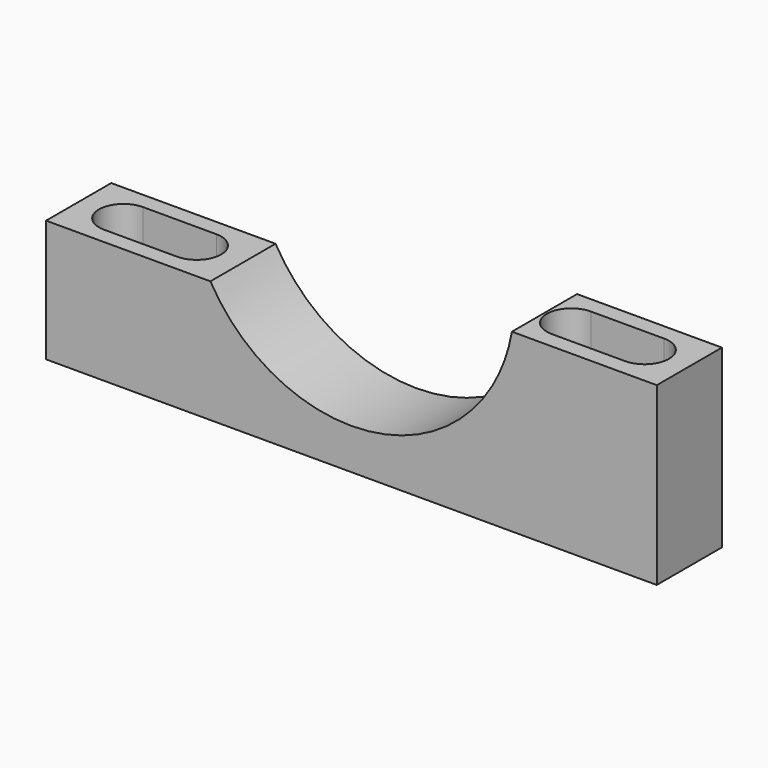
from build123d import *

# Parameters (mm, degrees)
F0_W     = 95.25
F0_H     = 19.05
F1_DEPTH = 12.7
F3_DEPTH = 19.051
F4_W     = 25.6279547439
F4_H     = 12.7
F5_DEPTH = 8.382
F7_DEPTH = 12.701


with BuildPart() as f1:
    # F0 (on Front) → F1 (new body)
    with BuildSketch(Plane.XZ):
        with Locations((47.625, 9.525)):
            Rectangle(F0_W, F0_H)
    extrude(amount=F1_DEPTH)

    # F2 (on face) → F3 (cut, through all)
    with BuildSketch(Plane(origin=(0, 0, 0), x_dir=(1, 0, 0), z_dir=(0, 0, -1))):
        with BuildLine():
            Line((18.4131473885, 10.1599995496), (6.9831433348, 10.1544417125))
            ThreePointArc((6.9831433348, 10.1544417125), (3.1749963967, 6.3425895514), (6.9868485577, 2.5344426133))
            Line((6.9868485577, 2.5344426133), (18.4168526115, 2.5400004504))
            ThreePointArc((18.4168526115, 2.5400004504), (22.2249995496, 6.3518526115), (18.4131473885, 10.1599995496))
        make_face()
        with BuildLine():
            Line((76.835, 2.54), (88.265, 2.54))
            ThreePointArc((88.265, 2.54), (92.075, 6.35), (88.265, 10.16))
            Line((88.265, 10.16), (76.835, 10.16))
            ThreePointArc((76.835, 10.16), (73.025, 6.35), (76.835, 2.54))
        make_face()
    extrude(amount=-F3_DEPTH, mode=Mode.SUBTRACT)

    # F4 (on face) → F5 (join)
    with BuildSketch(Plane.XY.offset(19.05)):
        with Locations((82.4360226281, -6.35)):
            Rectangle(F4_W, F4_H)
        with BuildLine():
            ThreePointArc((76.835, -10.16), (73.025, -6.35), (76.835, -2.54))
            Line((76.835, -2.54), (88.265, -2.54))
            ThreePointArc((88.265, -2.54), (92.075, -6.35), (88.265, -10.16))
            Line((88.265, -10.16), (76.835, -10.16))
        make_face(mode=Mode.SUBTRACT)
    extrude(amount=F5_DEPTH)

    # F6 (on face) → F7 (cut, through all)
    with BuildSketch(Plane.XZ.offset(12.7)):
        with BuildLine():
            ThreePointArc((25.6279547439, 19.05), (47.625, 6.35), (69.6220452561, 19.05))
            Line((69.6220452561, 19.05), (25.6279547439, 19.05))
        make_face()
        with BuildLine():
            Line((69.6220452561, 27.432), (69.6220452561, 19.05))
            ThreePointArc((69.6220452561, 19.05), (71.5092373122, 23.1068982411), (72.6552791834, 27.432))
            Line((72.6552791834, 27.432), (69.6220452561, 27.432))
        make_face()
    extrude(amount=-F7_DEPTH, mode=Mode.SUBTRACT)


solid = f1.part
